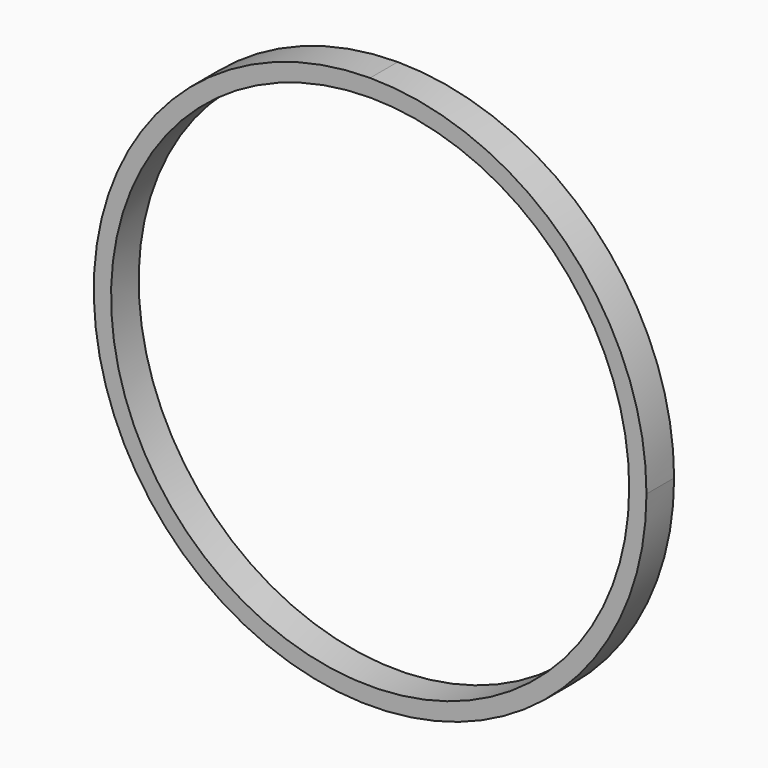
from build123d import *

# Parameters (mm, degrees)
F1_DEPTH = 5.08


with BuildPart() as f1:
    # F0 (on Front) → F1 (new body)
    with BuildSketch(Plane.XZ):
        with BuildLine():
            ThreePointArc((0, 40.64), (-28.73682, -28.73682), (40.64, 0))
            ThreePointArc((40.64, 0), (28.73682, 28.73682), (0, 40.64))
        make_face()
        with BuildLine():
            ThreePointArc((38.1, 0), (-26.940768, -26.940768), (0, 38.1))
            ThreePointArc((0, 38.1), (26.940768, 26.940768), (38.1, 0))
        make_face(mode=Mode.SUBTRACT)
    extrude(amount=F1_DEPTH)


solid = f1.part
